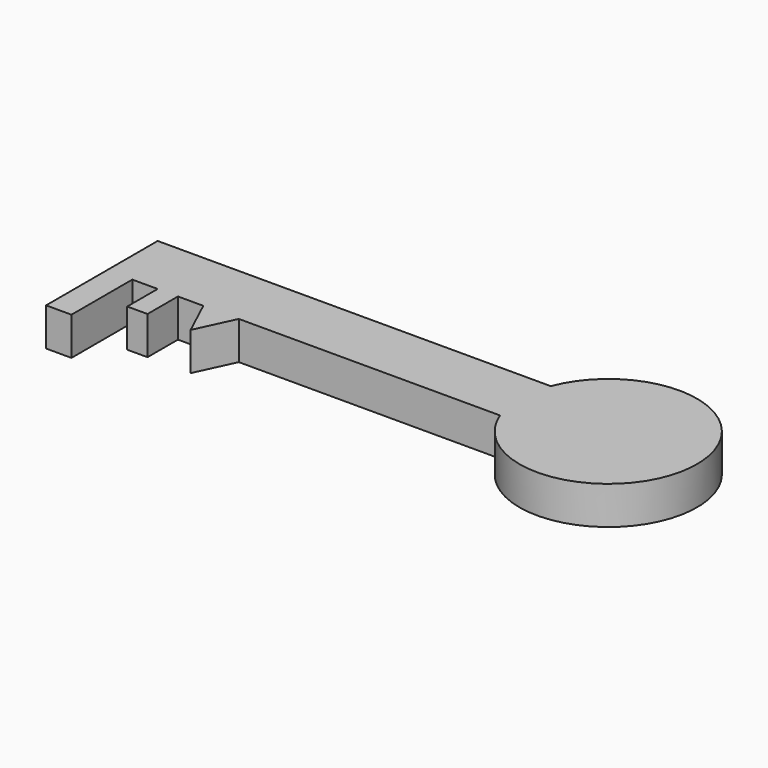
from build123d import *

# Parameters (mm, degrees)
F0_W     = 10
F0_H     = 30
F0_W_2   = 8
F0_H_2   = 15
F0_R     = 17.5
F1_DEPTH = 15


with BuildPart() as f1:
    # F0 (on Top) → F1 (new body)
    with BuildSketch(Plane.XY):
        Polygon((-13.852531, 0), (-13.852531, 25), (-168.852531, 25), (-168.852531, 0), (-158.852531, 0), (-148.852531, 0), (-140.852531, 0), (-130.852531, 0), (-123.852531, 0), (-116.852531, 0), align=None)
        with Locations((-163.852531, -15)):
            Rectangle(F0_W, F0_H)
        with Locations((-144.852531, -7.5)):
            Rectangle(F0_W_2, F0_H_2)
        Polygon((-123.852531, -15.00006), (-123.852531, 0), (-130.852531, 0), align=None)
        Polygon((-123.852531, -15.00006), (-116.852531, 0), (-123.852531, 0), align=None)
        with BuildLine():
            ThreePointArc((-13.852531, 0), (53.839211, 12.5), (-13.852531, 25))
            Line((-13.852531, 25), (-13.852531, 0))
        make_face()
        with Locations((18.839211, 12.5)):
            Circle(F0_R, mode=Mode.SUBTRACT)
        with Locations((18.839211, 12.5)):
            Circle(F0_R)
    extrude(amount=F1_DEPTH)


solid = f1.part
